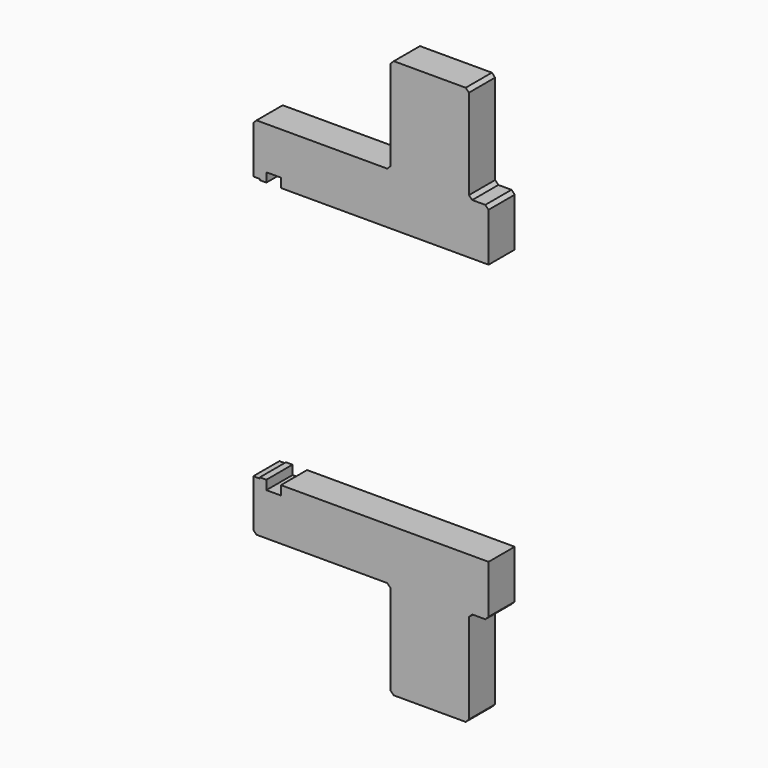
from build123d import *

# Parameters (mm, degrees)
F1_DEPTH = 25
F2_SIZE  = 2.5


with BuildPart() as f1:
    # F0 (on Front) → F1 (new body)
    with BuildSketch(Plane.XZ):
        Polygon((7.85167, 100.04), (12.85167, 100.04), (12.85167, 107.04), (24.00167, 107.04), (24.00167, 100.04), (182.85167, 100.04), (182.85167, 139.54), (167.85167, 139.54), (167.85167, 213.54), (107.85167, 213.54), (107.85167, 139.54), (2.85167, 139.54), (2.85167, 100.91), (7.85167, 100.91), align=None)
        Polygon((182.85167, -100.04), (24.00167, -100.04), (24.00167, -107.04), (12.85167, -107.04), (12.85167, -100.04), (7.85167, -100.04), (7.85167, -100.91), (2.85167, -100.91), (2.85167, -139.54), (107.85167, -139.54), (107.85167, -213.54), (167.85167, -213.54), (167.85167, -139.54), (182.85167, -139.54), align=None)
    extrude(amount=F1_DEPTH)

    # F2
    f2_edges = [f1.edges().sort_by_distance(p)[0] for p in [
        (2.85167, -12.5, 139.54),
        (107.85167, -12.5, 139.54),
        (107.85167, -12.5, 213.54),
        (167.85167, -12.5, 213.54),
        (167.85167, -12.5, 139.54),
        (182.85167, -12.5, 139.54),
        (2.85167, -12.5, -139.54),
        (107.85167, -12.5, -139.54),
        (107.85167, -12.5, -213.54),
        (167.85167, -12.5, -213.54),
        (167.85167, -12.5, -139.54),
        (182.85167, -12.5, -139.54),
    ]]
    chamfer(f2_edges, length=F2_SIZE)


solid = f1.part
